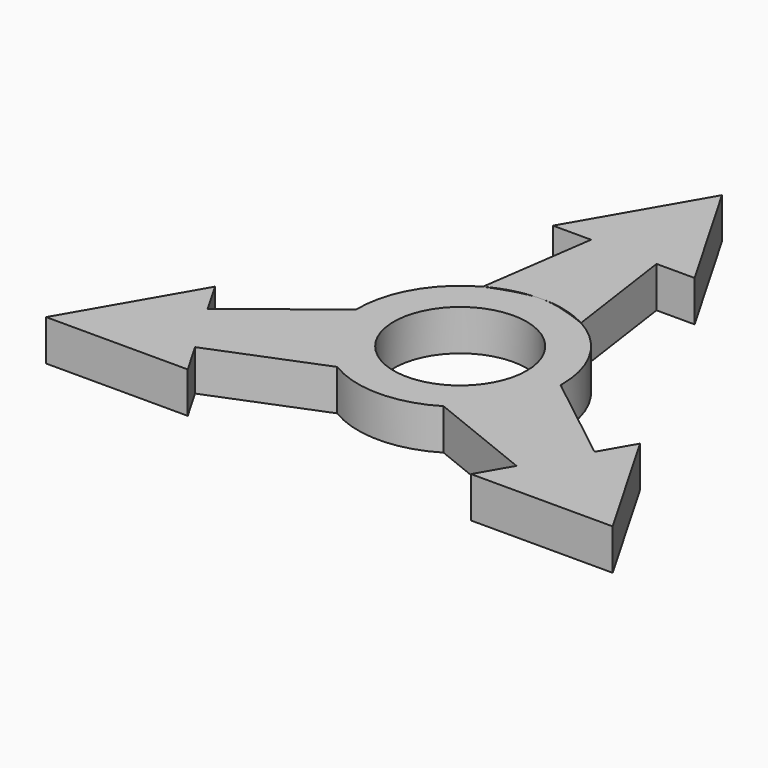
from build123d import *

# Parameters (mm, degrees)
F1_DEPTH = 6.35
F0_R     = 10.31875


with BuildPart() as f1:
    # F0 (on Top) → F1 (new body)
    with BuildSketch(Plane.XY):
        with BuildLine():
            ThreePointArc((0, 15.875), (3.932572867, 15.3801981666), (7.62, 13.9266372467))
            Line((7.62, 13.9266372467), (5.08, 31.75))
            Line((5.08, 31.75), (-5.08, 31.75))
            Line((-5.08, 31.75), (-7.62, 13.9266372467))
            ThreePointArc((-7.62, 13.9266372467), (-3.932572867, 15.3801981666), (0, 15.875))
        make_face()
        Polygon((-5.08, 31.75), (5.08, 31.75), (10.9985226281, 31.75), (0, 50.8), (-10.9985226281, 31.75), align=None)
    extrude(amount=F1_DEPTH)


with BuildPart() as f1b:
    # F0 (on Top) → F1, piece 2 (new body)
    with BuildSketch(Plane.XY):
        with BuildLine():
            ThreePointArc((15.8708216449, -0.3642050465), (15.8739553769, -0.1821145069), (15.875, 0))
            ThreePointArc((15.875, 0), (13.6561913614, 8.0946934778), (7.62, 13.9266372467))
            add(Edge.make_bspline(
                [(0, 15.875), (2.54, 15.875), (5.08, 14.9008186233), (7.62, 13.9266372467)],
                knots=[0.5, 0.5, 0.5, 0.5, 1, 1, 1, 1], degree=3))
            add(Edge.make_bspline(
                [(-7.62, 13.9266372467), (-5.08, 14.9008186233), (-2.54, 15.875), (0, 15.875)],
                knots=[0, 0, 0, 0, 0.5, 0.5, 0.5, 0.5], degree=3))
            ThreePointArc((-7.62, 13.9266372467), (-13.7481532851, 7.9375), (-15.8708216449, -0.3642050465))
            ThreePointArc((-15.8708216449, -0.3642050465), (-13.7481532851, -7.9375), (-8.2508216449, -13.5624322002))
            ThreePointArc((-8.2508216449, -13.5624322002), (0, -15.875), (8.2508216449, -13.5624322002))
            ThreePointArc((8.2508216449, -13.5624322002), (13.7481532851, -7.9375), (15.8708216449, -0.3642050465))
        make_face()
        Circle(F0_R, mode=Mode.SUBTRACT)
        with BuildLine():
            Line((-24.9563065702, -20.2744090512), (-8.2508216449, -13.5624322002))
            ThreePointArc((-8.2508216449, -13.5624322002), (-13.7481532851, -7.9375), (-15.8708216449, -0.3642050465))
            Line((-15.8708216449, -0.3642050465), (-30.0363065702, -11.4755909488))
            Line((-30.0363065702, -11.4755909488), (-24.9563065702, -20.2744090512))
        make_face()
        Polygon((-21.9970452561, -25.4), (-24.9563065702, -20.2744090512), (-30.0363065702, -11.4755909488), (-32.9955678842, -6.35), (-43.9940905122, -25.4), align=None)
        with BuildLine():
            Line((30.0363065702, -11.4755909488), (15.8708216449, -0.3642050465))
            ThreePointArc((15.8708216449, -0.3642050465), (13.7481532851, -7.9375), (8.2508216449, -13.5624322002))
            Line((8.2508216449, -13.5624322002), (24.9563065702, -20.2744090512))
            Line((24.9563065702, -20.2744090512), (30.0363065702, -11.4755909488))
        make_face()
        Polygon((32.9955678842, -6.35), (30.0363065702, -11.4755909488), (24.9563065702, -20.2744090512), (21.9970452561, -25.4), (43.9940905122, -25.4), align=None)
    extrude(amount=F1_DEPTH)


solid = Compound([f1.part, f1b.part])
